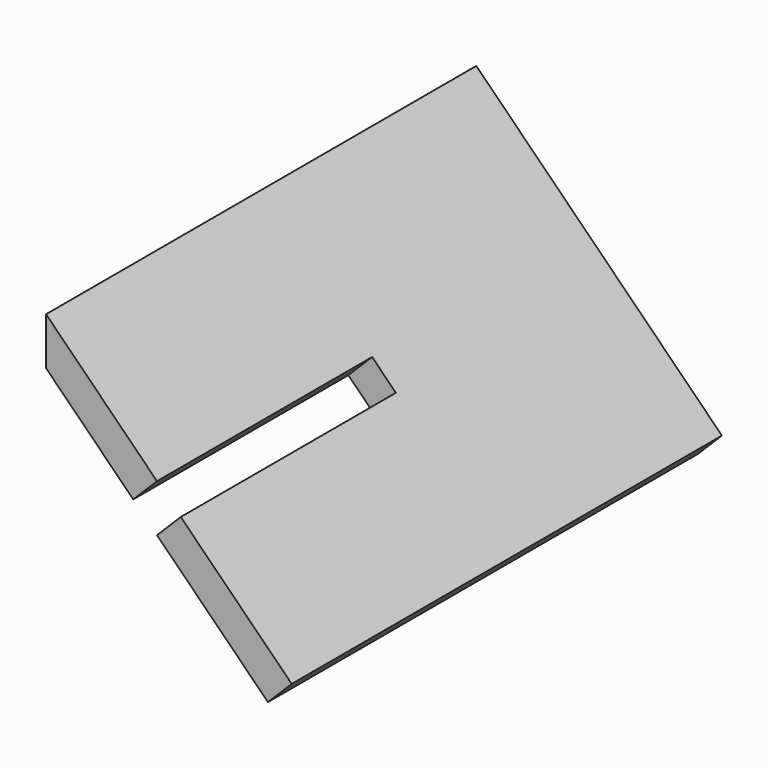
from build123d import *

# Parameters (mm, degrees)
F1_DEPTH = 152.4
F2_W     = 19.05
F2_H     = 152.4
F3_DEPTH = 19.05


with BuildPart() as f1:
    # F0 (on Front) → F1 (new body, symmetric)
    with BuildSketch(Plane.XZ):
        Polygon((-341.4117142798, 817.0427565066), (-341.4117142798, 790.1019881433), (-215.6881285848, 664.3784024484), (-202.2177444032, 677.84878663), align=None)
    extrude(amount=F1_DEPTH, both=True)

    # F2 (on face) → F3 (cut)
    with BuildSketch(Plane(origin=(237.8155211134, 0, 237.8155211134), x_dir=(0.7071067812, 0, -0.7071067812), z_dir=(0.7071067812, 0, 0.7071067812))):
        with Locations((-720.7260119889, -76.2)):
            Rectangle(F2_W, F2_H)
    extrude(amount=-F3_DEPTH, mode=Mode.SUBTRACT)


solid = f1.part
